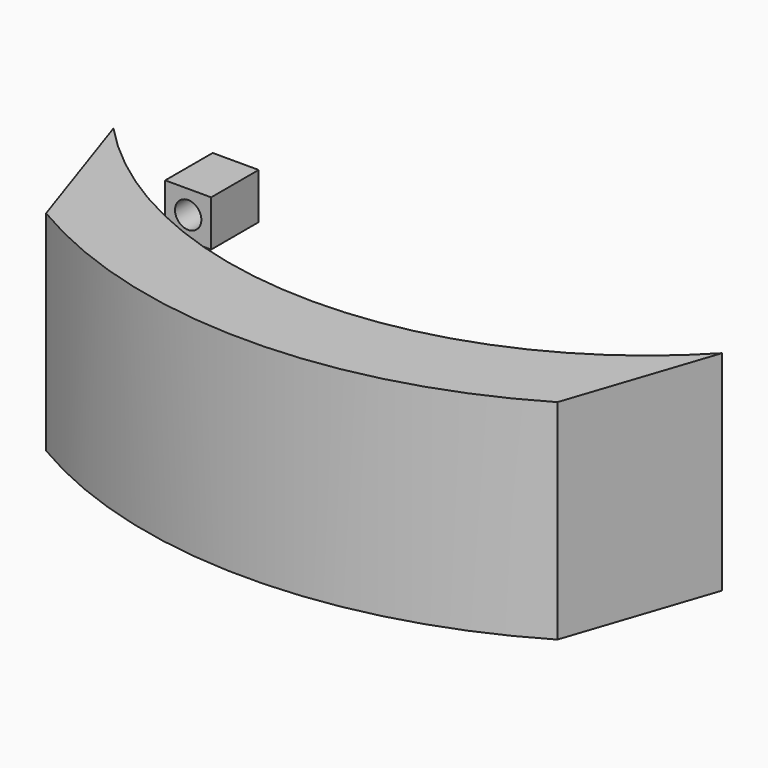
from build123d import *

# Parameters (mm, degrees)
F1_DEPTH = 50
F2_W     = 11
F2_H     = 11
F2_R     = 3.15
F3_DEPTH = 12.2
F4_W     = 11
F4_H     = 11
F5_DEPTH = 2
F6_R     = 1
F7_DEPTH = 7.7


with BuildPart() as f1:
    # F0 (on Top) → F1 (new body)
    with BuildSketch(Plane.XY):
        with BuildLine():
            ThreePointArc((49.834151, -86.506575), (37.879607, -78.364895), (27.22461, -68.583836))
            Line((27.22461, -68.583836), (38.850873, -103.251074))
            Line((38.850873, -103.251074), (49.834151, -86.506575))
        make_face()
        with BuildLine():
            ThreePointArc((100, -100), (74.025566, -96.567742), (49.834151, -86.506575))
            Line((49.834151, -86.506575), (38.850873, -103.251074))
            ThreePointArc((38.850873, -103.251074), (100, -120), (161.149127, -103.251074))
            Line((161.149127, -103.251074), (150.165849, -86.506575))
            ThreePointArc((150.165849, -86.506575), (125.974434, -96.567742), (100, -100))
        make_face()
        with BuildLine():
            Line((150.165849, -86.506575), (161.149127, -103.251074))
            Line((161.149127, -103.251074), (172.77539, -68.583836))
            ThreePointArc((172.77539, -68.583836), (162.120393, -78.364895), (150.165849, -86.506575))
        make_face()
    extrude(amount=F1_DEPTH)


with BuildPart() as f3:
    # F2 (on Front) → F3 (new body)
    with BuildSketch(Plane.XZ):
        Rectangle(F2_W, F2_H)
        Circle(F2_R, mode=Mode.SUBTRACT)
    extrude(amount=F3_DEPTH)

    # F4 (on face) → F5 (join)
    with BuildSketch(Plane(origin=(0, 0, 0), x_dir=(-1, 0, 0), z_dir=(0, 1, 0))):
        Rectangle(F4_W, F4_H)
    extrude(amount=F5_DEPTH)


with BuildPart() as f7:
    # F6 (on face) → F7 (new body)
    with BuildSketch(Plane.XZ):
        Circle(F6_R)
    extrude(amount=F7_DEPTH)


solid = Compound([f1.part, f3.part, f7.part])
